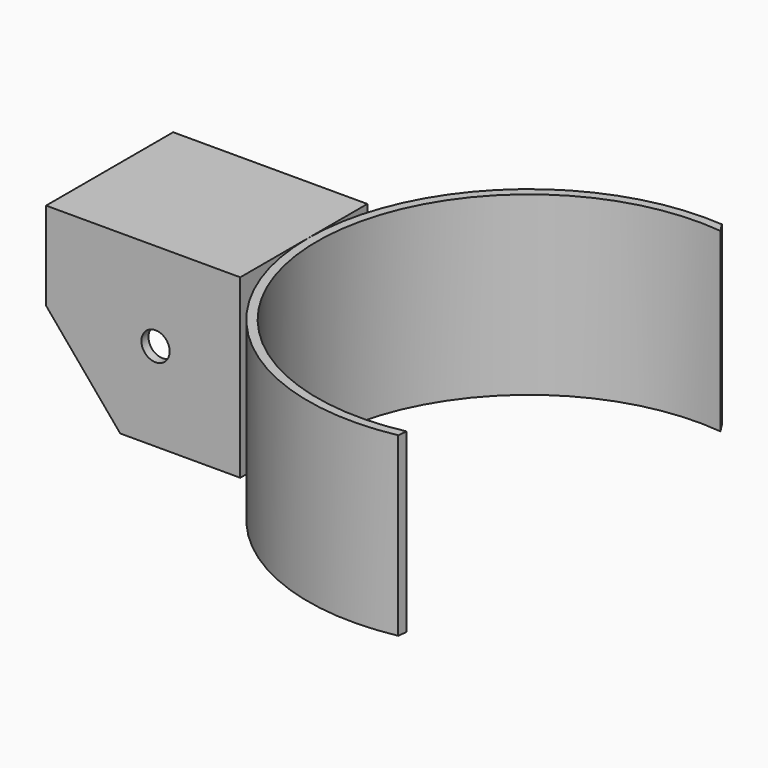
from build123d import *

# Parameters (mm, degrees)
F0_W     = 55
F0_H     = 45
F1_DEPTH = 50
F2_T     = -2.5
F3_R     = 4
F4_DEPTH = 45.001
F6_DEPTH = 50
F8_DEPTH = 86.566062


with BuildPart() as f1:
    # F0 (on Top) → F1 (new body)
    with BuildSketch(Plane.XY):
        Rectangle(F0_W, F0_H)
    extrude(amount=F1_DEPTH)

    # F2
    f2_openings = [f1.faces().sort_by_distance(p)[0] for p in [
        (0, 0, 0),
    ]]
    offset(amount=F2_T, openings=f2_openings)

    # F3 (on face) → F4 (cut, through all)
    with BuildSketch(Plane(origin=(0, 22.5, 0), x_dir=(-1, 0, 0), z_dir=(0, 1, 0))):
        with Locations((-3.5, 25)):
            Circle(F3_R)
    extrude(amount=-F4_DEPTH, mode=Mode.SUBTRACT)

    # F5 (on face) → F6 (join)
    with BuildSketch(Plane.XY.offset(50)):
        with BuildLine():
            ThreePointArc((102.361413, -57.14776), (30.07243, -1.382195), (96.540663, 61.207495))
            Line((96.540663, 61.207495), (94.836164, 63.877674))
            ThreePointArc((94.836164, 63.877674), (47.55009, 47.437223), (27.5, 1.565062))
            ThreePointArc((27.5, 1.565062), (50.296396, -46.703704), (102.055963, -59.761145))
            Line((102.055963, -59.761145), (102.361413, -57.14776))
        make_face()
    extrude(amount=-F6_DEPTH)

    # F7 (on face) → F8 (cut, through all)
    with BuildSketch(Plane.XZ.offset(22.5)):
        Polygon((-6.5, 0), (-27.5, 25.026825), (-27.5, 0), align=None)
    extrude(amount=-F8_DEPTH, mode=Mode.SUBTRACT)


solid = f1.part
